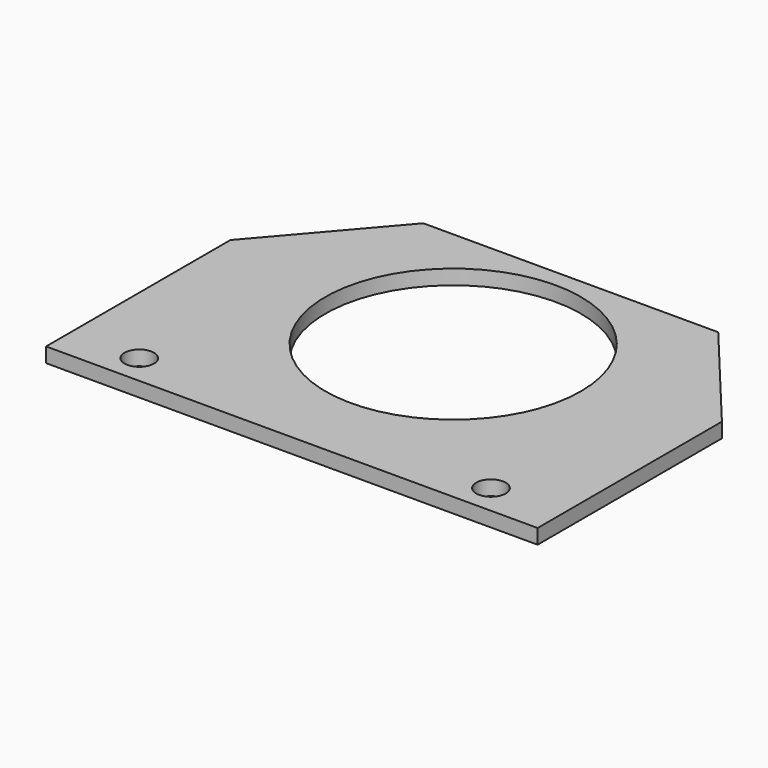
from build123d import *

# Parameters (mm, degrees)
SKETCH_R   = 3
SKETCH_R_2 = 26
PAD_DEPTH  = 3


with BuildPart() as part:
    # Sketch → Pad (new body)
    with BuildSketch(Plane.XY):
        Polygon((-50, -41.019315), (50, -41.019315), (50, 5.850685), (30.32369, 29.503721), (-29.67631, 29.503721), (-50, 5.850685), align=None)
        with Locations((-35.917853, -34.922924)):
            Circle(SKETCH_R, mode=Mode.SUBTRACT)
        with Locations((35.632147, -34.922924)):
            Circle(SKETCH_R, mode=Mode.SUBTRACT)
        Circle(SKETCH_R_2, mode=Mode.SUBTRACT)
    extrude(amount=PAD_DEPTH)


solid = part.part
